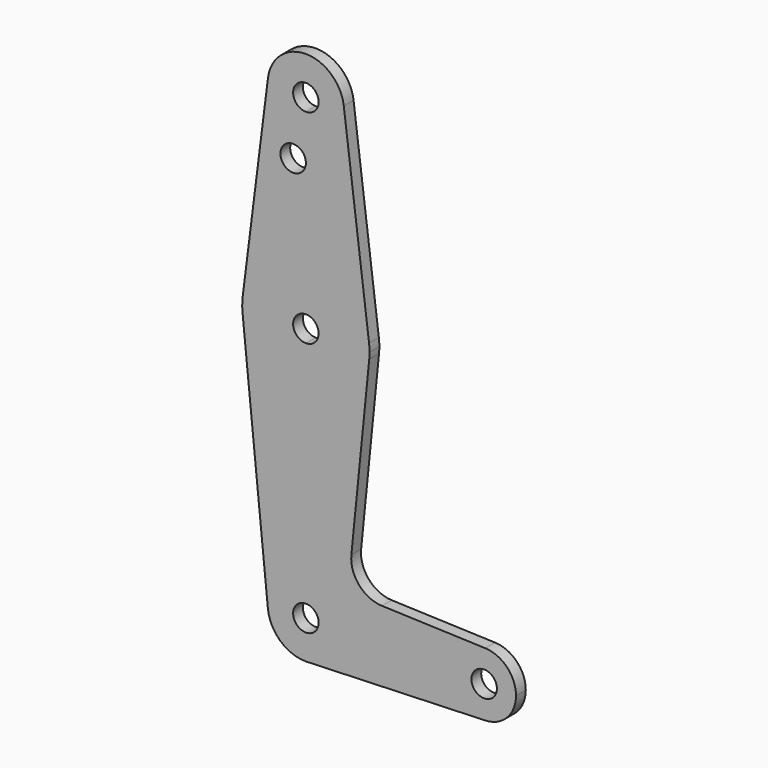
from build123d import *

# Parameters (mm, degrees)
F0_R     = 3.175
F1_DEPTH = 3.048


with BuildPart() as f1:
    # F0 (on Front) → F1 (new body)
    with BuildSketch(Plane.XZ):
        with BuildLine():
            ThreePointArc((-9.4502929642, 115.490625), (-7.14375, 107.9998046905), (0, 104.775))
            ThreePointArc((0, 104.775), (6.7351920908, 107.5648079092), (9.525, 114.3))
            ThreePointArc((9.525, 114.3), (9.5063048942, 114.896483242), (9.4502929642, 115.490625))
            ThreePointArc((9.4502929642, 115.490625), (0, 123.825), (-9.4502929642, 115.490625))
        make_face()
        with BuildLine():
            ThreePointArc((3.175, 114.3), (2.2450640303, 112.0549359697), (0, 111.125))
            ThreePointArc((0, 111.125), (-2.2450640303, 116.5450640303), (3.175, 114.3))
        make_face(mode=Mode.SUBTRACT)
        with BuildLine():
            ThreePointArc((9.525, 114.3), (6.7351920908, 107.5648079092), (0, 104.775))
            Line((0, 104.775), (0, 99.886942851))
            Line((0, 99.886942851), (0, 79.375))
            ThreePointArc((0, 79.375), (10.5003255158, 75.40625), (15.7504882737, 65.484375))
            Line((15.7504882737, 65.484375), (9.4502929642, 115.490625))
            ThreePointArc((9.4502929642, 115.490625), (9.5063048942, 114.896483242), (9.525, 114.3))
        make_face()
        with BuildLine():
            Line((0, 99.886942851), (0, 104.775))
            ThreePointArc((0, 104.775), (-7.14375, 107.9998046905), (-9.4502929642, 115.490625))
            Line((-9.4502929642, 115.490625), (-15.7504882737, 65.484375))
            ThreePointArc((-15.7504882737, 65.484375), (-10.5003255158, 75.40625), (0, 79.375))
            Line((0, 79.375), (0, 99.886942851))
        make_face()
        with Locations((-3.175, 99.886942851)):
            Circle(F0_R, mode=Mode.SUBTRACT)
        with BuildLine():
            ThreePointArc((15.7504882737, 65.484375), (10.5003255158, 75.40625), (0, 79.375))
            Line((0, 79.375), (0, 66.675))
            ThreePointArc((0, 66.675), (2.2450640303, 65.7450640303), (3.175, 63.5))
            ThreePointArc((3.175, 63.5), (2.2450640303, 61.2549359697), (0, 60.325))
            Line((0, 60.325), (0, 47.625))
            ThreePointArc((0, 47.625), (10.6492737428, 51.7267849017), (15.7954255641, 61.9125))
            ThreePointArc((15.7954255641, 61.9125), (15.8550939106, 62.7052534459), (15.875, 63.5))
            ThreePointArc((15.875, 63.5), (15.8438414904, 64.4941387366), (15.7504882737, 65.484375))
        make_face()
        with BuildLine():
            Line((0, 66.675), (0, 79.375))
            ThreePointArc((0, 79.375), (-10.5003255158, 75.40625), (-15.7504882737, 65.484375))
            ThreePointArc((-15.7504882737, 65.484375), (-15.8737438155, 63.6997054867), (-15.7954255641, 61.9125))
            ThreePointArc((-15.7954255641, 61.9125), (-10.6492737428, 51.7267849017), (0, 47.625))
            Line((0, 47.625), (0, 60.325))
            ThreePointArc((0, 60.325), (-3.175, 63.5), (0, 66.675))
        make_face()
        with BuildLine():
            ThreePointArc((0, 47.625), (-10.6492737428, 51.7267849017), (-15.7954255641, 61.9125))
            Line((-15.7954255641, 61.9125), (-9.4772553384, -0.9525))
            ThreePointArc((-9.4772553384, -0.9525), (-7.063929059, 6.3895642457), (0, 9.525))
            Line((0, 9.525), (0, 47.625))
        make_face()
        with BuildLine():
            ThreePointArc((15.7954255641, 61.9125), (10.6492737428, 51.7267849017), (0, 47.625))
            Line((0, 47.625), (0, 9.525))
            ThreePointArc((0, 9.525), (6.7351920908, 6.7351920908), (9.525, 0))
            Line((9.525, 0), (36.5125, 0))
            ThreePointArc((36.5125, 0), (38.9384772185, 5.7120069047), (44.7334821429, 7.9324362036))
            Line((44.7334821429, 7.9324362036), (18.9676000005, 8.8532337108))
            ThreePointArc((18.9676000005, 8.8532337108), (13.2611998974, 11.5713591498), (11.3411865923, 17.5933818124))
            Line((11.3411865923, 17.5933818124), (15.7954255641, 61.9125))
        make_face()
        with BuildLine():
            ThreePointArc((0, 9.525), (-7.063929059, 6.3895642457), (-9.4772553384, -0.9525))
            ThreePointArc((-9.4772553384, -0.9525), (-6.3895642457, -7.063929059), (0, -9.525))
            Line((0, -9.525), (0.6773435479, -9.500885786))
            ThreePointArc((0.6773435479, -9.500885786), (6.9705567315, -6.4912990883), (9.525, 0))
            Line((9.525, 0), (3.175, 0))
            ThreePointArc((3.175, 0), (-2.2450640303, -2.2450640303), (0, 3.175))
            Line((0, 3.175), (0, 9.525))
        make_face()
        with BuildLine():
            Line((0.6773435479, -9.500885786), (0, -9.525))
            ThreePointArc((0, -9.525), (0.3388863295, -9.5189695375), (0.6773435479, -9.500885786))
        make_face()
        with BuildLine():
            Line((36.5125, 0), (9.525, 0))
            ThreePointArc((9.525, 0), (6.9705567315, -6.4912990883), (0.6773435479, -9.500885786))
            Line((0.6773435479, -9.500885786), (44.7324052746, -7.9324746146))
            ThreePointArc((44.7324052746, -7.9324746146), (38.9380895153, -5.7116327839), (36.5125, 0))
        make_face()
        with BuildLine():
            ThreePointArc((44.7334821429, 7.9324362036), (38.9384772185, 5.7120069047), (36.5125, 0))
            ThreePointArc((36.5125, 0), (38.9380895153, -5.7116327839), (44.7324052746, -7.9324746146))
            ThreePointArc((44.7324052746, -7.9324746146), (50.1616327839, -5.5119104847), (52.3875, 0))
            ThreePointArc((52.3875, 0), (50.1620069047, 5.5115227815), (44.7334821429, 7.9324362036))
        make_face()
        with BuildLine():
            ThreePointArc((47.625, 0), (44.45, -3.175), (41.275, 0))
            ThreePointArc((41.275, 0), (44.45, 3.175), (47.625, 0))
        make_face(mode=Mode.SUBTRACT)
        with BuildLine():
            ThreePointArc((9.525, 0), (6.7351920908, 6.7351920908), (0, 9.525))
            Line((0, 9.525), (0, 3.175))
            ThreePointArc((0, 3.175), (2.2450640303, 2.2450640303), (3.175, 0))
            Line((3.175, 0), (9.525, 0))
        make_face()
    extrude(amount=F1_DEPTH)


solid = f1.part
